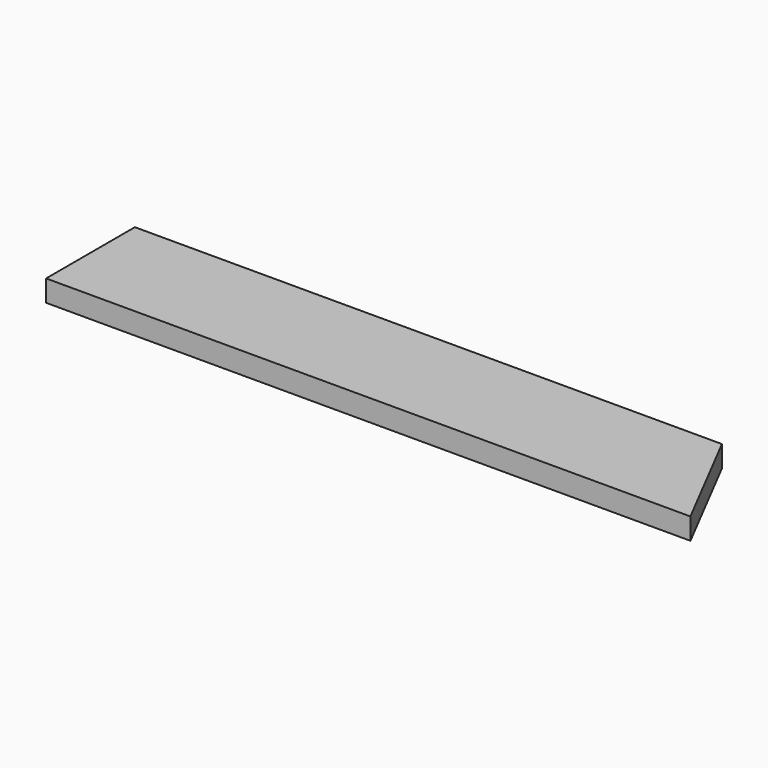
from build123d import *

# Parameters (mm, degrees)
F1_DEPTH = 3


with BuildPart() as f1:
    # F0 (on Top) → F1 (new body, symmetric)
    with BuildSketch(Plane.XY):
        Polygon((155.811681, 17.76796), (139.811681, 48.76796), (-24.188319, 48.76796), (-24.188319, 17.76796), align=None)
    extrude(amount=F1_DEPTH, both=True)


solid = f1.part
